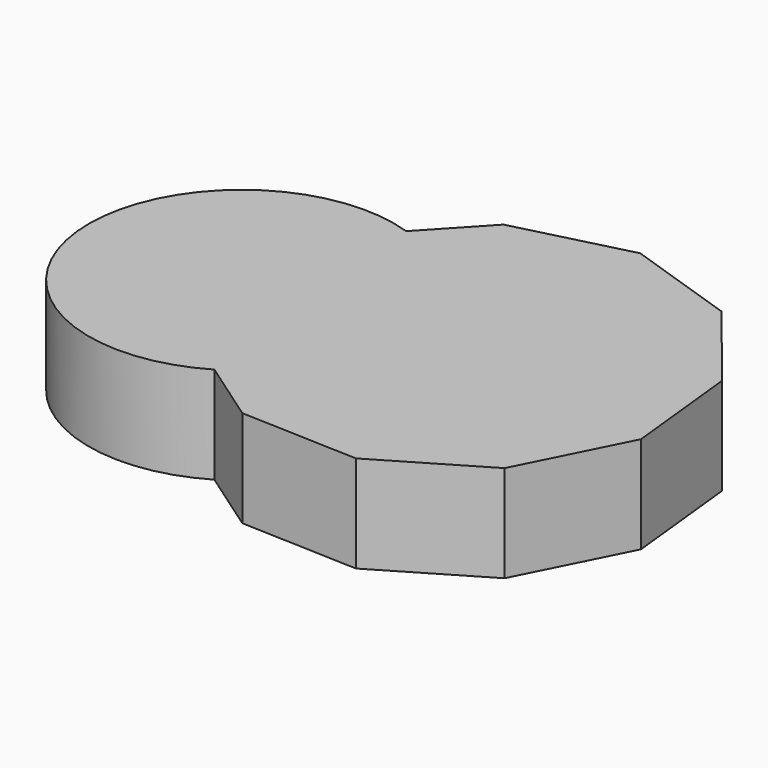
from build123d import *

# Parameters (mm, degrees)
F1_DEPTH = 25


with BuildPart() as f1:
    # F0 (on Top) → F1 (new body)
    with BuildSketch(Plane.XY):
        with BuildLine():
            Line((44.2323138443, 53.6120123524), (14.9306940409, 46.1801402908))
            Line((14.9306940409, 46.1801402908), (1.409488745, 31.7010644379))
            ThreePointArc((1.409488745, 31.7010644379), (20.8682402259, 17.3549575083), (28.2853797095, -5.6546021379))
            ThreePointArc((28.2853797095, -5.6546021379), (23.1153004455, -25.1651330736), (8.9619402095, -39.5551619484))
            Line((8.9619402095, -39.5551619484), (25.2179080922, -50.8781535321))
            Line((25.2179080922, -50.8781535321), (55.4264067271, -52.0025447749))
            Line((55.4264067271, -52.0025447749), (81.447304726, -36.6164954842))
            Line((81.447304726, -36.6164954842), (95.019150829, -9.604967597))
            Line((95.019150829, -9.604967597), (91.8329797925, 20.4560696368))
            Line((91.8329797925, 20.4560696368), (72.9003784082, 44.0224492966))
            Line((72.9003784082, 44.0224492966), (44.2323138443, 53.6120123524))
        make_face()
        with BuildLine():
            ThreePointArc((28.2853797095, -5.6546021379), (20.8682402259, 17.3549575083), (1.409488745, 31.7010644379))
            Line((1.409488745, 31.7010644379), (-5.7014237497, 24.0863999801))
            Line((-5.7014237497, 24.0863999801), (-11.1134879087, -5.6546021379))
            Line((-11.1134879087, -5.6546021379), (0.4127936947, -33.6003080306))
            Line((0.4127936947, -33.6003080306), (8.9619402095, -39.5551619484))
            ThreePointArc((8.9619402095, -39.5551619484), (23.1153004455, -25.1651330736), (28.2853797095, -5.6546021379))
        make_face()
        with BuildLine():
            Line((-5.7014237497, 24.0863999801), (1.409488745, 31.7010644379))
            ThreePointArc((1.409488745, 31.7010644379), (-50.2929014842, -9.8072303985), (8.9619402095, -39.5551619484))
            Line((8.9619402095, -39.5551619484), (0.4127936947, -33.6003080306))
            Line((0.4127936947, -33.6003080306), (-11.1134879087, -5.6546021379))
            Line((-11.1134879087, -5.6546021379), (-5.7014237497, 24.0863999801))
        make_face()
    extrude(amount=F1_DEPTH)


solid = f1.part
